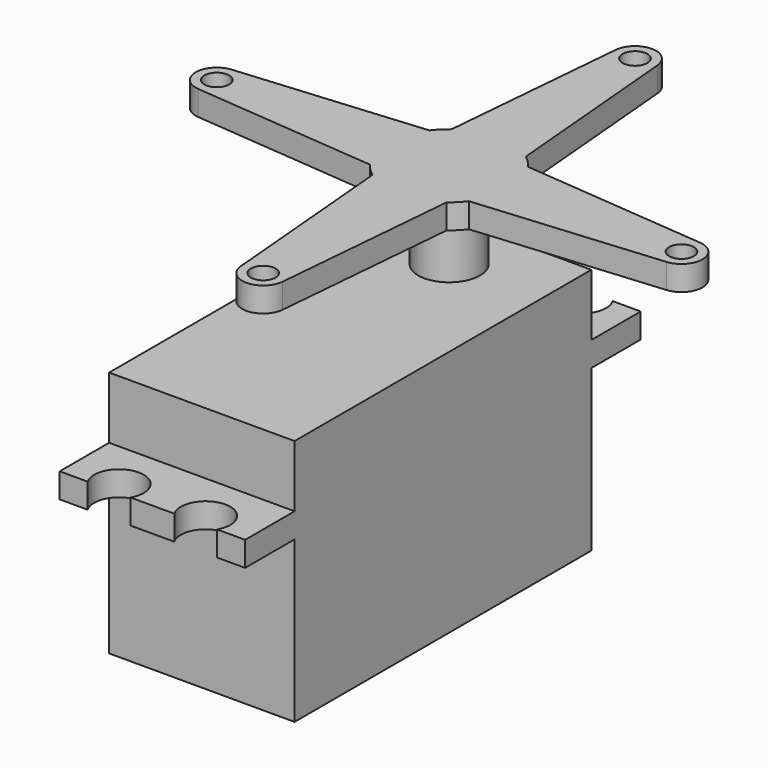
from build123d import *

# Parameters (mm, degrees)
F0_W      = 19.05
F0_H      = 38.1
F1_DEPTH  = 16.51
F2_W      = 19.05
F2_H      = 50.8
F3_DEPTH  = 2.54
F4_R      = 2.54
F5_DEPTH  = 2.54
F6_W      = 19.05
F6_H      = 38.1
F7_DEPTH  = 6.35
F8_R      = 3.175
F9_DEPTH  = 6.35
F10_R     = 6.35
F11_DEPTH = 2.54
F12_R     = 1.27
F13_DEPTH = 2.54


with BuildPart() as f1:
    # F0 (on Top) → F1 (new body)
    with BuildSketch(Plane.XY):
        with Locations((-35.5894370005, 14.3955526778)):
            Rectangle(F0_W, F0_H)
    extrude(amount=F1_DEPTH)

    # F2 (on face) → F3 (join)
    with BuildSketch(Plane.XY.offset(16.51)):
        with Locations((-35.5894370005, 14.3955526778)):
            Rectangle(F2_W, F2_H)
    extrude(amount=F3_DEPTH)

    # F4 (on face) → F5 (cut)
    with BuildSketch(Plane.XY.offset(19.05)):
        with Locations((-40.0344370005, 38.5255526778)):
            Circle(F4_R)
        with Locations((-31.1444370005, 38.5255526778)):
            Circle(F4_R)
        with Locations((-31.1444370005, -9.7344473222)):
            Circle(F4_R)
        with Locations((-40.0344370005, -9.7344473222)):
            Circle(F4_R)
    extrude(amount=-F5_DEPTH, mode=Mode.SUBTRACT)

    # F6 (on face) → F7 (join)
    with BuildSketch(Plane.XY.offset(19.05)):
        with Locations((-35.5894370005, 14.3955526778)):
            Rectangle(F6_W, F6_H)
    extrude(amount=F7_DEPTH)

    # F8 (on face) → F9 (join)
    with BuildSketch(Plane.XY.offset(25.4)):
        with Locations((-35.5894370005, 27.0955526778)):
            Circle(F8_R)
    extrude(amount=F9_DEPTH)

    # F10 (on face) → F11 (join)
    with BuildSketch(Plane.XY.offset(31.75)):
        with Locations((-35.5894370005, 27.0955526778)):
            Circle(F10_R)
    extrude(amount=F11_DEPTH)

    # F12 (on face) → F13 (join)
    with BuildSketch(Plane.XY.offset(34.29)):
        with BuildLine():
            Line((-37.7391201011, 51.1530616765), (-39.3994370005, 32.1755526778))
            ThreePointArc((-39.3994370005, 32.1755526778), (-35.5894370005, 33.4455526778), (-31.7794370005, 32.1755526778))
            Line((-31.7794370005, 32.1755526778), (-33.4397538998, 51.1530616765))
            ThreePointArc((-33.4397538998, 51.1530616765), (-35.5894370005, 53.1228833158), (-37.7391201011, 51.1530616765))
        make_face()
        with Locations((-35.5894370005, 50.964988775)):
            Circle(F12_R, mode=Mode.SUBTRACT)
        with BuildLine():
            Line((-11.5319280018, 29.2452357785), (-30.5094370005, 30.9055526778))
            ThreePointArc((-30.5094370005, 30.9055526778), (-29.2394370005, 27.0955526778), (-30.5094370005, 23.2855526778))
            Line((-30.5094370005, 23.2855526778), (-11.5319280018, 24.9458695772))
            ThreePointArc((-11.5319280018, 24.9458695772), (-9.5621063624, 27.0955526778), (-11.5319280018, 29.2452357785))
        make_face()
        with Locations((-11.7200009033, 27.0955526778)):
            Circle(F12_R, mode=Mode.SUBTRACT)
        with BuildLine():
            Line((-33.4397538998, 3.0380436792), (-31.7794370005, 22.0155526778))
            ThreePointArc((-31.7794370005, 22.0155526778), (-35.5894370005, 20.7455526778), (-39.3994370005, 22.0155526778))
            Line((-39.3994370005, 22.0155526778), (-37.7391201011, 3.0380436792))
            ThreePointArc((-37.7391201011, 3.0380436792), (-35.5894370005, 1.0682220398), (-33.4397538998, 3.0380436792))
        make_face()
        with Locations((-35.5894370005, 3.2261165806)):
            Circle(F12_R, mode=Mode.SUBTRACT)
        with BuildLine():
            ThreePointArc((-40.6694370005, 23.2855526778), (-41.9394370005, 27.0955526778), (-40.6694370005, 30.9055526778))
            Line((-40.6694370005, 30.9055526778), (-59.6469459991, 29.2452357785))
            ThreePointArc((-59.6469459991, 29.2452357785), (-61.6167676385, 27.0955526778), (-59.6469459991, 24.9458695772))
            Line((-59.6469459991, 24.9458695772), (-40.6694370005, 23.2855526778))
        make_face()
        with Locations((-59.4588730976, 27.0955526778)):
            Circle(F12_R, mode=Mode.SUBTRACT)
    extrude(amount=-F13_DEPTH)


solid = f1.part
